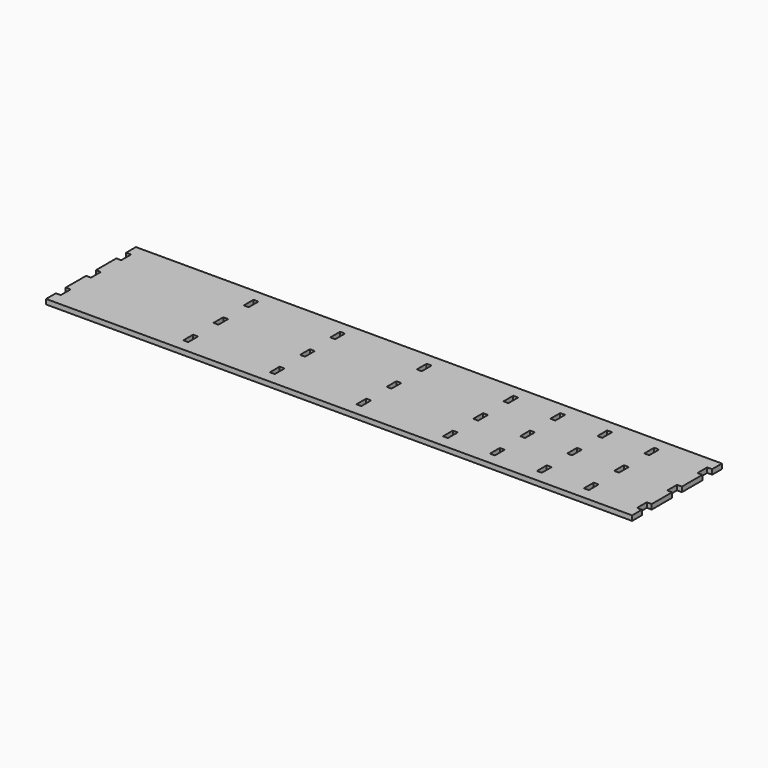
from build123d import *

# Parameters (mm, degrees)
F0_W     = 287
F0_H     = 55
F1_DEPTH = 2.4
F2_W     = 2.4
F2_H     = 6
F3_DEPTH = 2.401


with BuildPart() as f1:
    # F0 (on Top) → F1 (new body)
    with BuildSketch(Plane.XY):
        Rectangle(F0_W, F0_H)
    extrude(amount=F1_DEPTH)

    # F2 (on face) → F3 (cut, through all)
    with BuildSketch(Plane.XY.offset(2.4)):
        with Locations((-142.3, 0)):
            Rectangle(F2_W, F2_H)
        with Locations((-142.3, -18.5)):
            Rectangle(F2_W, F2_H)
        with Locations((-142.3, 18.5)):
            Rectangle(F2_W, F2_H)
        with Locations((-79.9, 18.5)):
            Rectangle(F2_W, F2_H)
        with Locations((-79.9, 0)):
            Rectangle(F2_W, F2_H)
        with Locations((-79.9, -18.5)):
            Rectangle(F2_W, F2_H)
        with Locations((-37.5, -18.5)):
            Rectangle(F2_W, F2_H)
        with Locations((-37.5, 0)):
            Rectangle(F2_W, F2_H)
        with Locations((-37.5, 18.5)):
            Rectangle(F2_W, F2_H)
        with Locations((4.9, 18.5)):
            Rectangle(F2_W, F2_H)
        with Locations((4.9, 0)):
            Rectangle(F2_W, F2_H)
        with Locations((4.9, -18.5)):
            Rectangle(F2_W, F2_H)
        with Locations((47.3, -18.5)):
            Rectangle(F2_W, F2_H)
        with Locations((47.3, 0)):
            Rectangle(F2_W, F2_H)
        with Locations((47.3, 18.5)):
            Rectangle(F2_W, F2_H)
        with Locations((70.3, 18.5)):
            Rectangle(F2_W, F2_H)
        with Locations((70.3, 0)):
            Rectangle(F2_W, F2_H)
        with Locations((70.3, -18.5)):
            Rectangle(F2_W, F2_H)
        with Locations((93.3, -18.5)):
            Rectangle(F2_W, F2_H)
        with Locations((93.3, 0)):
            Rectangle(F2_W, F2_H)
        with Locations((93.3, 18.5)):
            Rectangle(F2_W, F2_H)
        with Locations((116.3, 18.5)):
            Rectangle(F2_W, F2_H)
        with Locations((116.3, 0)):
            Rectangle(F2_W, F2_H)
        with Locations((116.3, -18.5)):
            Rectangle(F2_W, F2_H)
        with Locations((142.3, 18.5)):
            Rectangle(F2_W, F2_H)
        with Locations((142.3, 0)):
            Rectangle(F2_W, F2_H)
        with Locations((142.3, -18.5)):
            Rectangle(F2_W, F2_H)
    extrude(amount=-F3_DEPTH, mode=Mode.SUBTRACT)


solid = f1.part
